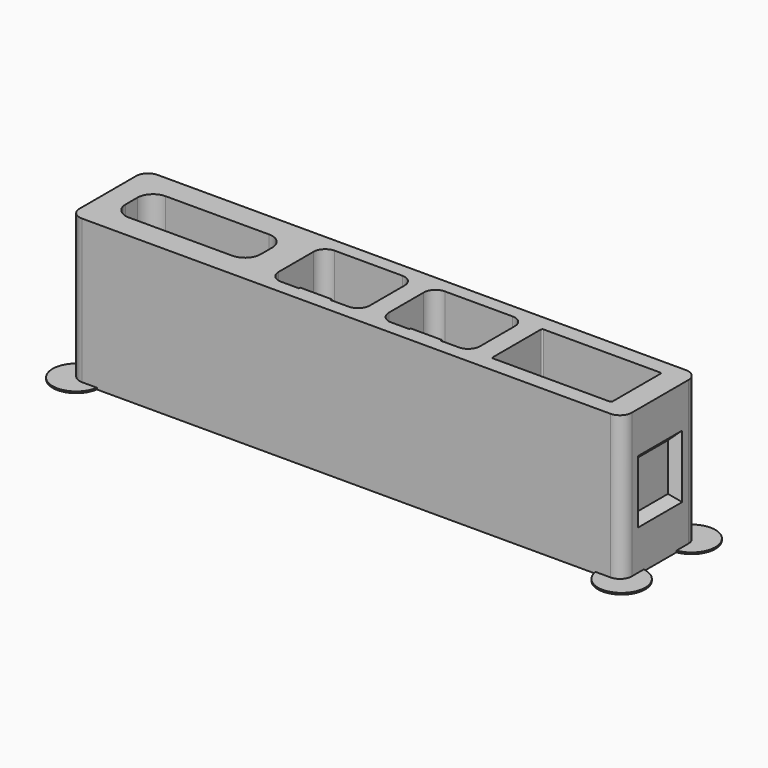
from build123d import *

# Parameters (mm, degrees)
F2_DEPTH  = 18.5
F3_R      = 1.55
F4_DEPTH  = 3.075
F5_W      = 6
F5_H      = 0.5
F6_DEPTH  = 0.2
F5_W_2    = 4
F5_H_2    = 2.25
F7_DEPTH  = 0.6
F8_W      = 4
F8_H      = 0.5
F9_DEPTH  = 0.9
F8_H_2    = 0.47
F10_DEPTH = 0.2
F11_W     = 4
F11_H     = 0.5
F12_DEPTH = 0.9
F11_H_2   = 0.47
F13_DEPTH = 0.2
F14_W     = 4
F14_H     = 0.5
F15_DEPTH = 0.7
F16_W     = 8
F16_H     = 7
F17_DEPTH = 1
F17_TAPER = 45
F18_W     = 8
F18_H     = 7
F19_DEPTH = 1
F19_TAPER = 45
F22_DEPTH = 0.2
F23_ANGLE = 90


with BuildPart() as f2:
    # F1 (on Front) → F2 (new body)
    with BuildSketch(Plane.XZ):
        with BuildLine():
            Line((-33.5725, -6), (33.5725, -6))
            ThreePointArc((33.5725, -6), (34.6331601718, -5.5606601718), (35.0725, -4.5))
            Line((35.0725, -4.5), (35.0725, 4.5))
            ThreePointArc((35.0725, 4.5), (34.6331601718, 5.5606601718), (33.5725, 6))
            Line((33.5725, 6), (-33.5725, 6))
            ThreePointArc((-33.5725, 6), (-34.6331601718, 5.5606601718), (-35.0725, 4.5))
            Line((-35.0725, 4.5), (-35.0725, -4.5))
            ThreePointArc((-35.0725, -4.5), (-34.6331601718, -5.5606601718), (-33.5725, -6))
        make_face()
        with BuildLine():
            ThreePointArc((-14.9225, -0.925), (-15.5082864376, -2.3392135624), (-16.9225, -2.925))
            Line((-16.9225, -2.925), (-30.0725, -2.925))
            ThreePointArc((-30.0725, -2.925), (-31.4867135624, -2.3392135624), (-32.0725, -0.925))
            Line((-32.0725, -0.925), (-32.0725, 0.925))
            ThreePointArc((-32.0725, 0.925), (-31.4867135624, 2.3392135624), (-30.0725, 2.925))
            Line((-30.0725, 2.925), (-16.9225, 2.925))
            ThreePointArc((-16.9225, 2.925), (-15.5082864376, 2.3392135624), (-14.9225, 0.925))
            Line((-14.9225, 0.925), (-14.9225, -0.925))
        make_face(mode=Mode.SUBTRACT)
        with BuildLine():
            Line((-9.6675, 4.265), (-1.0875, 4.265))
            ThreePointArc((-1.0875, 4.265), (-0.0268398282, 3.8256601718), (0.4125, 2.765))
            Line((0.4125, 2.765), (0.4125, -2.765))
            ThreePointArc((0.4125, -2.765), (-0.0268398282, -3.8256601718), (-1.0875, -4.265))
            Line((-1.0875, -4.265), (-9.6675, -4.265))
            ThreePointArc((-9.6675, -4.265), (-10.7281601718, -3.8256601718), (-11.1675, -2.765))
            Line((-11.1675, -2.765), (-11.1675, 2.765))
            ThreePointArc((-11.1675, 2.765), (-10.7281601718, 3.8256601718), (-9.6675, 4.265))
        make_face(mode=Mode.SUBTRACT)
        with BuildLine():
            Line((4.3325, 4.265), (12.9125, 4.265))
            ThreePointArc((12.9125, 4.265), (13.9731601718, 3.8256601718), (14.4125, 2.765))
            Line((14.4125, 2.765), (14.4125, -2.765))
            ThreePointArc((14.4125, -2.765), (13.9731601718, -3.8256601718), (12.9125, -4.265))
            Line((12.9125, -4.265), (4.3325, -4.265))
            ThreePointArc((4.3325, -4.265), (3.2718398282, -3.8256601718), (2.8325, -2.765))
            Line((2.8325, -2.765), (2.8325, 2.765))
            ThreePointArc((2.8325, 2.765), (3.2718398282, 3.8256601718), (4.3325, 4.265))
        make_face(mode=Mode.SUBTRACT)
        with BuildLine():
            ThreePointArc((32.0725, -3.8), (32.0139213562, -3.9414213562), (31.8725, -4))
            Line((31.8725, -4), (17.0725, -4))
            ThreePointArc((17.0725, -4), (16.9310786438, -3.9414213562), (16.8725, -3.8))
            Line((16.8725, -3.8), (16.8725, 3.8))
            ThreePointArc((16.8725, 3.8), (16.9310786438, 3.9414213562), (17.0725, 4))
            Line((17.0725, 4), (31.8725, 4))
            ThreePointArc((31.8725, 4), (32.0139213562, 3.9414213562), (32.0725, 3.8))
            Line((32.0725, 3.8), (32.0725, -3.8))
        make_face(mode=Mode.SUBTRACT)
    extrude(amount=-F2_DEPTH)

    # F3 (on face) → F4 (cut, through all)
    with BuildSketch(Plane.XY.offset(6)):
        with Locations((-23.4975, 13.2)):
            Circle(F3_R)
    extrude(amount=-F4_DEPTH, mode=Mode.SUBTRACT)

    # F5 (on face) → F6 (join)
    with BuildSketch(Plane.XY.offset(-2.925)):
        with Locations((-23.4975, 18.25)):
            Rectangle(F5_W, F5_H)
    extrude(amount=F6_DEPTH)

    # F5 (on face) → F7 (join)
    with BuildSketch(Plane.XY.offset(-2.925)):
        with Locations((-23.4975, 6.575)):
            Rectangle(F5_W_2, F5_H_2)
    extrude(amount=F7_DEPTH)

    # F8 (on face) → F9 (join)
    with BuildSketch(Plane.XY.offset(-4.265)):
        with Locations((-5.3775, 18.25)):
            Rectangle(F8_W, F8_H)
    extrude(amount=F9_DEPTH)

    # F8 (on face) → F10 (join)
    with BuildSketch(Plane.XY.offset(-4.265)):
        with Locations((-5.3775, 0.235)):
            Rectangle(F8_W, F8_H_2)
    extrude(amount=F10_DEPTH)

    # F11 (on face) → F12 (join)
    with BuildSketch(Plane.XY.offset(-4.265)):
        with Locations((8.6225, 18.25)):
            Rectangle(F11_W, F11_H)
    extrude(amount=F12_DEPTH)

    # F11 (on face) → F13 (join)
    with BuildSketch(Plane.XY.offset(-4.265)):
        with Locations((8.6225, 0.235)):
            Rectangle(F11_W, F11_H_2)
    extrude(amount=F13_DEPTH)

    # F14 (on face) → F15 (join)
    with BuildSketch(Plane.XY.offset(-4)):
        with Locations((24.4725, 18.25)):
            Rectangle(F14_W, F14_H)
    extrude(amount=F15_DEPTH)

    # F16 (on face) → F17 (cut)
    with BuildSketch(Plane.YZ.offset(35.0725)):
        with Locations((9.25, 0)):
            Rectangle(F16_W, F16_H)
    extrude(amount=-F17_DEPTH, taper=F17_TAPER, mode=Mode.SUBTRACT)

    # F18 (on face) → F19 (cut)
    with BuildSketch(Plane(origin=(-35.0725, 0, 0), x_dir=(0, -1, 0), z_dir=(-1, 0, 0))):
        with Locations((-9.25, 0)):
            Rectangle(F18_W, F18_H)
    extrude(amount=-F19_DEPTH, taper=F19_TAPER, mode=Mode.SUBTRACT)

    # F21 (on face) → F22 (join)
    with BuildSketch(Plane(origin=(0, 18.5, 0), x_dir=(-1, 0, 0), z_dir=(0, 1, 0))):
        with BuildLine():
            Line((-33.5725, 6), (-31.6655044446, 6))
            ThreePointArc((-31.6655044446, 6), (-36.7544805153, 7.6819805153), (-35.0725, 2.5930044446))
            Line((-35.0725, 2.5930044446), (-35.0725, 4.5))
            ThreePointArc((-35.0725, 4.5), (-34.6331601718, 5.5606601718), (-33.5725, 6))
        make_face()
        with BuildLine():
            Line((-35.0725, -4.5), (-35.0725, -2.5930044446))
            ThreePointArc((-35.0725, -2.5930044446), (-36.7544805153, -7.6819805153), (-31.6655044446, -6))
            Line((-31.6655044446, -6), (-33.5725, -6))
            ThreePointArc((-33.5725, -6), (-34.6331601718, -5.5606601718), (-35.0725, -4.5))
        make_face()
        with BuildLine():
            ThreePointArc((37.6331601718, 5.5606601718), (34.8534245792, 8.5525631767), (31.6655044446, 6))
            Line((31.6655044446, 6), (33.5725, 6))
            ThreePointArc((33.5725, 6), (34.6331601718, 5.5606601718), (35.0725, 4.5))
            Line((35.0725, 4.5), (35.0725, 2.5930044446))
            ThreePointArc((35.0725, 2.5930044446), (36.9045055313, 3.6008157245), (37.6331601718, 5.5606601718))
        make_face()
        with BuildLine():
            ThreePointArc((37.6331601718, -5.5606601718), (36.9045055313, -3.6008157245), (35.0725, -2.5930044446))
            Line((35.0725, -2.5930044446), (35.0725, -4.5))
            ThreePointArc((35.0725, -4.5), (34.6331601718, -5.5606601718), (33.5725, -6))
            Line((33.5725, -6), (31.6655044446, -6))
            ThreePointArc((31.6655044446, -6), (34.8534245792, -8.5525631767), (37.6331601718, -5.5606601718))
        make_face()
    extrude(amount=-F22_DEPTH)


with BuildPart() as f2_1:
    # F23: moved
    add(f2.part.rotate(Axis((0, 18.5, 6), (-1, 0, 0)), F23_ANGLE))


solid = f2_1.part
